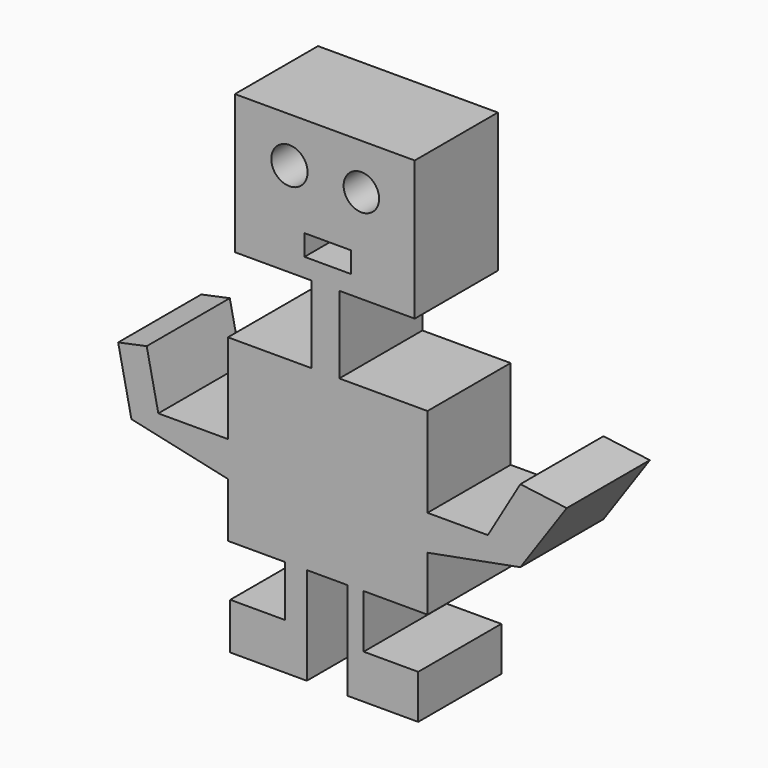
from build123d import *

# Parameters (mm, degrees)
F0_W     = 11.348937
F0_H     = 5.107021
F0_R     = 4.440973
F0_R_2   = 4.340135
F0_W_2   = 6.809362
F0_H_2   = 18.867606
F1_DEPTH = 25.4


with BuildPart() as f1:
    # F0 (on Front) → F1 (new body)
    with BuildSketch(Plane.XZ):
        Polygon((21.988563, 52.914415), (-21.988565, 52.914415), (-21.988565, 18.867606), (-3.262819, 18.867606), (3.546543, 18.867606), (21.988563, 18.867606), align=None)
        with Locations((0.709308, 25.96069)):
            Rectangle(F0_W, F0_H, mode=Mode.SUBTRACT)
        with Locations((-8.653564, 41.849203)):
            Circle(F0_R, mode=Mode.SUBTRACT)
        with Locations((8.937287, 41.849203)):
            Circle(F0_R_2, mode=Mode.SUBTRACT)
        with Locations((0.141862, 9.433803)):
            Rectangle(F0_W_2, F0_H_2)
        Polygon((3.546543, 0), (-3.262819, 0), (-23.690904, 0), (-23.690904, -21.917634), (-23.690904, -30.500267), (-23.690904, -43.835267), (-9.788458, -43.835267), (-4.397713, -43.835267), (5.532607, -43.835267), (9.504734, -43.835267), (25.10952, -43.835267), (25.10952, -30.500267), (25.10952, -21.917634), (25.10952, 0), align=None)
        Polygon((-23.690904, -30.500267), (-23.690904, -21.917634), (-40.714309, -21.917634), (-43.551542, -8.369841), (-50.530179, -9.831335), (-47.290991, -25.298465), align=None)
        Polygon((39.863139, -21.917634), (25.10952, -21.917634), (25.10952, -30.500267), (47.807392, -26.244417), (59.156332, -9.831335), (47.807392, -8.369841), align=None)
        Polygon((-4.397713, -43.835267), (-9.788458, -43.835267), (-9.788458, -56.319095), (-23.123458, -56.319095), (-23.123458, -67.668028), (-4.397713, -67.668028), align=None)
        Polygon((9.504734, -56.886546), (9.504734, -43.835267), (5.532607, -43.835267), (5.532607, -67.668028), (22.839734, -67.668028), (22.839734, -56.886546), align=None)
    extrude(amount=F1_DEPTH)


solid = f1.part
